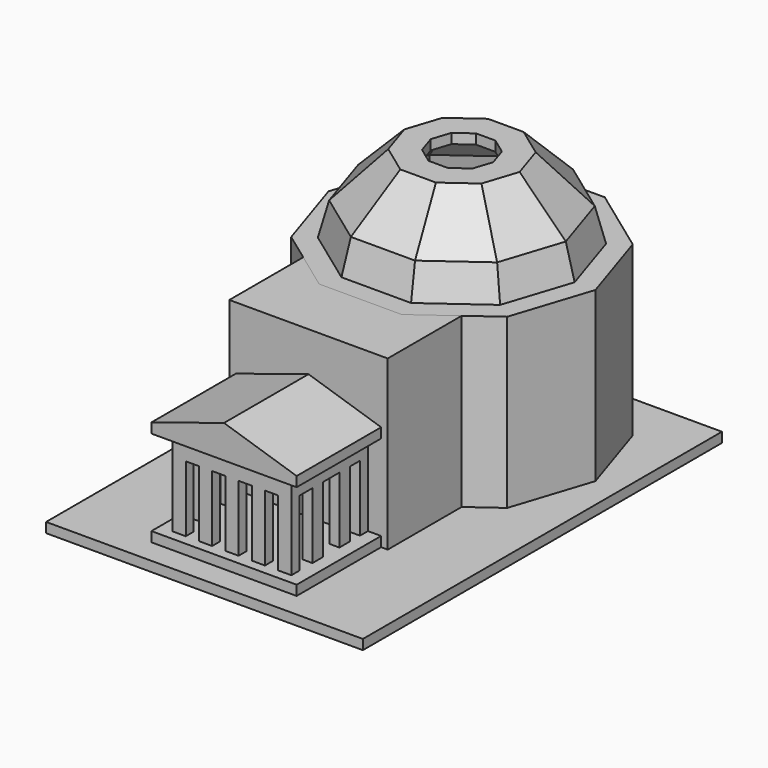
from build123d import *

# Parameters (mm, degrees)
F0_W      = 152.4
F0_H      = 215.9
F1_DEPTH  = 4.7625
F2_W      = 69.85
F2_H      = 50.8
F3_DEPTH  = 4.7625
F4_W      = 6.35
F4_H      = 4.7625
F4_W_2    = 4.7625
F4_H_2    = 6.35
F5_DEPTH  = 31.75
F7_DEPTH  = 9.525
F9_DEPTH  = 50.8
F11_DEPTH = 80.9625
F13_DEPTH = 80.9625
F14_T     = -4.7625
F15_T     = -4.7625
F17_DEPTH = 85.726


with BuildPart() as f1:
    # F0 (on Top) → F1 (new body)
    with BuildSketch(Plane.XY):
        Rectangle(F0_W, F0_H)
    extrude(amount=F1_DEPTH)


with BuildPart() as f3:
    # F2 (on face) → F3 (new body)
    with BuildSketch(Plane.XY.offset(4.7625)):
        with Locations((0, -70.7898)):
            Rectangle(F2_W, F2_H)
    extrude(amount=F3_DEPTH)

    # F4 (on face) → F5 (join)
    with BuildSketch(Plane.XY.offset(9.525)):
        with Locations((-25.4, -47.77105)):
            Rectangle(F4_W, F4_H)
        with Locations((-12.7, -47.77105)):
            Rectangle(F4_W, F4_H)
        with Locations((0, -47.77105)):
            Rectangle(F4_W, F4_H)
        with Locations((12.7, -47.77105)):
            Rectangle(F4_W, F4_H)
        with Locations((25.4, -47.77105)):
            Rectangle(F4_W, F4_H)
        with Locations((26.19375, -59.3852)):
            Rectangle(F4_W_2, F4_H_2)
        with Locations((26.19375, -75.5523)):
            Rectangle(F4_W_2, F4_H_2)
        with Locations((25.4, -89.04605)):
            Rectangle(F4_W, F4_H)
        with Locations((12.7, -89.04605)):
            Rectangle(F4_W, F4_H)
        with Locations((0, -89.04605)):
            Rectangle(F4_W, F4_H)
        with Locations((-12.7, -89.04605)):
            Rectangle(F4_W, F4_H)
        with Locations((-25.4, -89.04605)):
            Rectangle(F4_W, F4_H)
        with Locations((-26.19375, -75.5523)):
            Rectangle(F4_W_2, F4_H_2)
        with Locations((-26.19375, -59.3852)):
            Rectangle(F4_W_2, F4_H_2)
    extrude(amount=F5_DEPTH)

    # F6 (on face) → F7 (join)
    with BuildSketch(Plane.XY.offset(41.275)):
        Polygon((28.575, -45.3898), (-28.575, -45.3898), (-28.575, -50.1523), (-23.8125, -50.1523), (-22.225, -50.1523), (23.8125, -50.1523), (23.8125, -86.6648), (28.575, -86.6648), align=None)
        Polygon((-23.8125, -50.1523), (-28.575, -50.1523), (-28.575, -91.4273), (28.575, -91.4273), (28.575, -86.6648), (23.8125, -86.6648), (22.225, -86.6648), (-23.8125, -86.6648), align=None)
    extrude(amount=F7_DEPTH)

    # F8 (on face) → F9 (join, through all)
    with BuildSketch(Plane.XZ.offset(96.1898)):
        Polygon((-34.925, 50.8), (-28.575, 50.8), (28.575, 50.8), (34.925, 50.8), (34.925, 55.5625), (0, 66.675), (-34.925, 55.5625), align=None)
    extrude(amount=-F9_DEPTH)


with BuildPart() as f11:
    # F10 (on face) → F11 (new body)
    with BuildSketch(Plane.XY.offset(4.7625)):
        Polygon((19.84375, 107.95), (-19.84375, 107.95), (-51.9516119643, 84.6222727996), (-64.2157239285, 46.8772173092), (-51.9516119643, 9.1321618187), (-19.84375, -14.1955653816), (19.84375, -14.1955653816), (51.9516119643, 9.1321618187), (64.2157239285, 46.8772173092), (51.9516119643, 84.6222727996), align=None)
    extrude(amount=F11_DEPTH)

    # F14
    f14_openings = [f11.faces().sort_by_distance(p)[0] for p in [
        (0, 46.877217, 4.7625),
    ]]
    offset(amount=F14_T, openings=f14_openings)

    # F16 (on face) → F17 (cut, through all)
    with BuildSketch(Plane.XY.offset(85.725)):
        Polygon((35.7467140651, 20.9057093044), (44.1853685568, 46.8772173092), (35.7467140651, 72.848725314), (13.6540297868, 88.9), (-13.6540297868, 88.9), (-35.7467140651, 72.848725314), (-44.1853685568, 46.8772173092), (-35.7467140651, 20.9057093044), (-13.6540297868, 4.8544346184), (13.6540297868, 4.8544346184), align=None)
    extrude(amount=-F17_DEPTH, mode=Mode.SUBTRACT)


with BuildPart() as f13:
    # F12 (on face) → F13 (new body)
    with BuildSketch(Plane.XY.offset(4.7625)):
        Polygon((19.84375, -14.1955653816), (-19.84375, -14.1955653816), (-38.1, -0.9316233547), (-38.1, -45.3898), (38.1, -45.3898), (38.1, -0.9316233547), align=None)
    extrude(amount=F13_DEPTH)

    # F15
    f15_openings = [f13.faces().sort_by_distance(p)[0] for p in [
        (0, -27.941907, 4.7625),
        (0, -14.195565, 45.24375),
        (28.971875, -7.563594, 45.24375),
        (-28.971875, -7.563594, 45.24375),
    ]]
    offset(amount=F15_T, openings=f15_openings)


with BuildPart() as f21:
    # F21: sweep along a path in F18
    with BuildLine(Plane.XY.offset(85.725)) as f21_path:
        Line((16.7488898934, -4.6705653816), (43.8491630147, 15.0189355616))
        Line((43.8491630147, 15.0189355616), (54.2005462426, 46.8772173092))
        Line((54.2005462426, 46.8772173092), (43.8491630147, 78.7354990568))
        Line((43.8491630147, 78.7354990568), (16.7488898934, 98.425))
        Line((16.7488898934, 98.425), (-16.7488898934, 98.425))
        Line((-16.7488898934, 98.425), (-43.8491630147, 78.7354990568))
        Line((-43.8491630147, 78.7354990568), (-54.2005462426, 46.8772173092))
        Line((-54.2005462426, 46.8772173092), (-43.8491630147, 15.0189355616))
        Line((-43.8491630147, 15.0189355616), (-16.7488898934, -4.6705653816))
        Line((-16.7488898934, -4.6705653816), (16.7488898934, -4.6705653816))
    # F20 (on mid) → F21 (sweep)
    with BuildSketch(Plane(origin=(13.7768685014, 4.4763759285, 0), x_dir=(0.3090169944, -0.9510565163, 0), z_dir=(-0.9510565163, -0.3090169944, 0))):
        Polygon((1.0940291389, 99.1347485954), (4.6871604458, 85.725), (9.617663255, 85.725), (5.3639698251, 101.6), (-16.8610301749, 123.825), (-29.5610301749, 123.825), (-29.5610301749, 119.0625), (-18.8337222657, 119.0625), align=None)
    sweep(path=f21_path.line, transition=Transition.RIGHT)


solid = Compound([f1.part, f3.part, f11.part, f13.part, f21.part])
